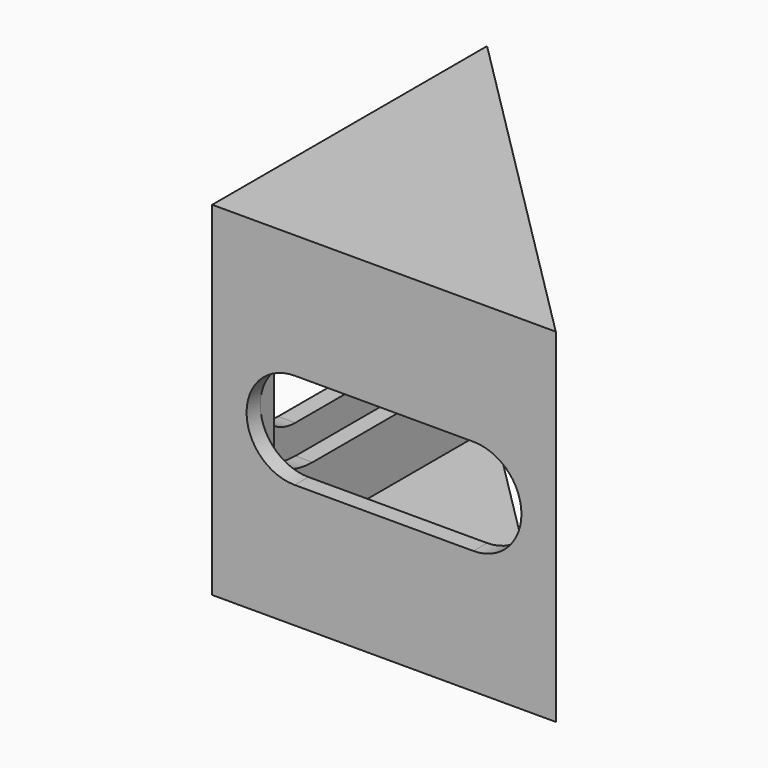
from build123d import *

# Parameters (mm, degrees)
PAD_DEPTH            = 20
SKETCH001_W          = 18
SKETCH001_H          = 16
POCKET_DEPTH         = 18.001
POCKET001_DEPTH      = 2.001
POCKET002_DEPTH      = 1
POCKET002_DEPTH_BACK = -5
POCKET003_DEPTH      = 2.001
POCKET004_DEPTH      = 1


with BuildPart() as part:
    # Sketch → Pad (new body)
    with BuildSketch(Plane.XY):
        Polygon((0, 0), (0, 20), (20, 0), align=None)
    extrude(amount=PAD_DEPTH)

    # Sketch001 → Pocket (cut, through all)
    with BuildSketch(Plane.XZ.offset(-2)):
        with Locations((11, 10)):
            Rectangle(SKETCH001_W, SKETCH001_H)
    extrude(amount=-POCKET_DEPTH, mode=Mode.SUBTRACT)

    # Sketch002 (on Face9 of Pocket) → Pocket001 (cut, through all)
    with BuildSketch(Plane.YZ.offset(2)):
        with BuildLine():
            ThreePointArc((4.8, 12.8), (2, 10), (4.8, 7.2))
            Line((4.8, 7.2), (15.2, 7.2))
            ThreePointArc((15.2, 7.2), (18, 10), (15.2, 12.8))
            Line((4.8, 12.8), (15.2, 12.8))
        make_face()
    extrude(amount=-POCKET001_DEPTH, mode=Mode.SUBTRACT)

    # Sketch003 (on Face13 of Pocket001) → Pocket002 (cut, two sides)
    with BuildSketch(Plane.YZ.offset(2)) as pocket002_sk:
        with BuildLine():
            ThreePointArc((15.2, 5.5), (19.7, 10), (15.2, 14.5))
            Line((4.8, 14.5), (15.2, 14.5))
            ThreePointArc((4.8, 14.5), (3.317186, 14.248678), (2, 13.522783))
            Line((2, 13.522783), (2, 6.477217))
            ThreePointArc((2, 6.477217), (3.317186, 5.751322), (4.8, 5.5))
            Line((4.8, 5.5), (15.2, 5.5))
        make_face()
    extrude(amount=-POCKET002_DEPTH, mode=Mode.SUBTRACT)
    extrude(pocket002_sk.sketch, amount=-POCKET002_DEPTH_BACK, mode=Mode.SUBTRACT)

    # Sketch004 (on Face21 of Pocket002) → Pocket003 (cut, through all)
    with BuildSketch(Plane(origin=(0, 2, 0), x_dir=(-1, 0, 0), z_dir=(0, 1, 0))):
        with BuildLine():
            ThreePointArc((-15.2, 12.8), (-18, 10), (-15.2, 7.2))
            Line((-15.2, 7.2), (-4.8, 7.2))
            ThreePointArc((-4.8, 7.2), (-2, 10), (-4.8, 12.8))
            Line((-15.2, 12.8), (-4.8, 12.8))
        make_face()
    extrude(amount=-POCKET003_DEPTH, mode=Mode.SUBTRACT)

    # Sketch005 (on Face15 of Pocket003) → Pocket004 (cut)
    with BuildSketch(Plane(origin=(0, 2, 0), x_dir=(-1, 0, 0), z_dir=(0, 1, 0))):
        with BuildLine():
            ThreePointArc((-15.2, 14.5), (-19.7, 10), (-15.2, 5.5))
            Line((-15.2, 5.5), (-4.8, 5.5))
            ThreePointArc((-4.8, 5.5), (-3.317186, 5.751322), (-2, 6.477217))
            Line((-2, 13.522783), (-2, 6.477217))
            ThreePointArc((-2, 13.522783), (-3.317186, 14.248678), (-4.8, 14.5))
            Line((-15.2, 14.5), (-4.8, 14.5))
        make_face()
    extrude(amount=-POCKET004_DEPTH, mode=Mode.SUBTRACT)


solid = part.part
